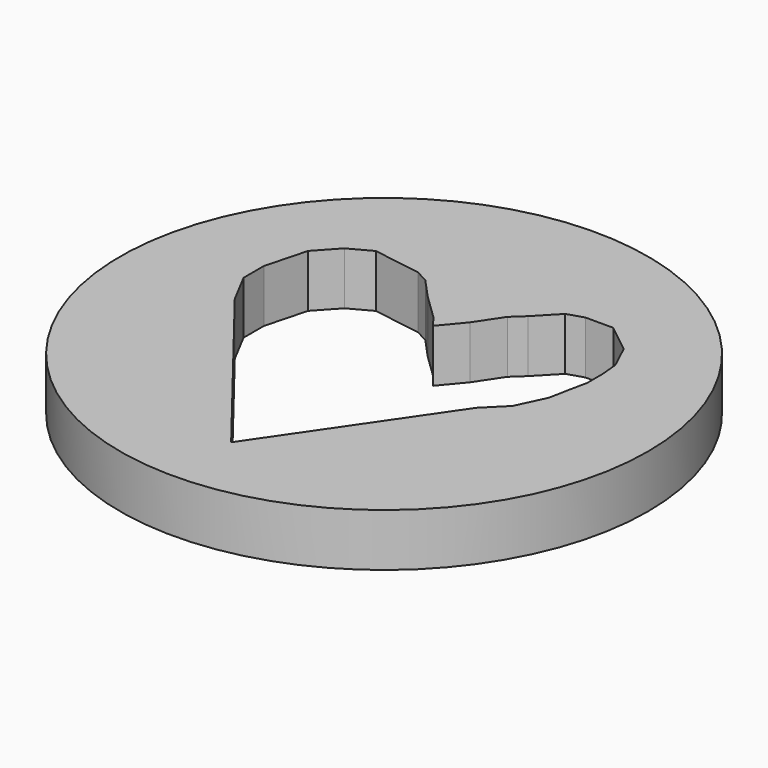
from build123d import *

# Parameters (mm, degrees)
SKETCH_R      = 50
EXTRUDE_DEPTH = 10


with BuildPart() as part:
    # Sketch → Extrude (new body)
    with BuildSketch(Plane.XY):
        Circle(SKETCH_R)
        Polygon((0, -36.217949), (-28.28525, 0), (-31.490379, 6.089741), (-31.490379, 10.897434), (-29.407051, 18.75), (-25.721149, 22.756409), (-21.554483, 25), (-12.419867, 23.557693), (-10.01602, 22.275639), (-6.330123, 18.26923), (-1.522433, 13.621796), (0, 11.538464), (3.605769, 15.865385), (6.810907, 20.673079), (9.054492, 22.756409), (12.900642, 26.762819), (15.945516, 27.724361), (21.23398, 27.724361), (26.682697, 23.397434), (28.926281, 18.589741), (29.246799, 15.224361), (29.246799, 11.538464), (28.445511, 7.692307), (27.804497, 4.326921), (25.240389, -1.121795), (21.394239, -4.967949), align=None, mode=Mode.SUBTRACT)
    extrude(amount=EXTRUDE_DEPTH)


solid = part.part
